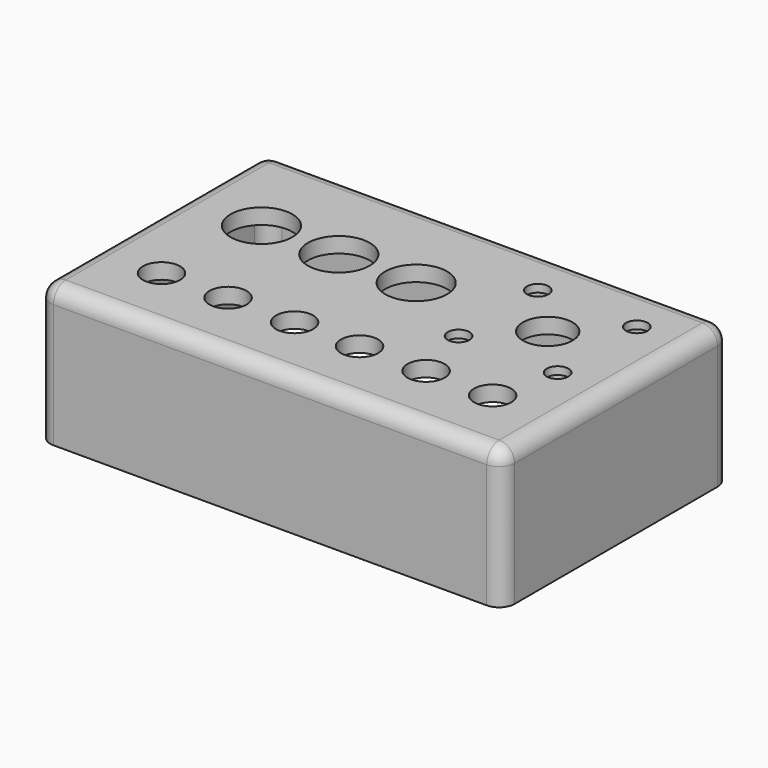
from build123d import *

# Parameters (mm, degrees)
F0_W     = 150
F0_H     = 92
F0_R     = 6
F0_R_2   = 3.5
F0_R_3   = 10
F0_R_4   = 8
F1_DEPTH = 2.5
F2_W     = 150
F2_H     = 92
F2_R     = 6
F2_R_2   = 10
F2_R_3   = 8
F3_DEPTH = 2.5
F4_W     = 150
F4_H     = 92
F5_DEPTH = 40
F6_R     = 5


with BuildPart() as f1:
    # F0 (on Top) → F1 (new body)
    with BuildSketch(Plane.XY):
        with Locations((75, 46)):
            Rectangle(F0_W, F0_H)
        with Locations((21.5, 23)):
            Circle(F0_R, mode=Mode.SUBTRACT)
        with Locations((43, 23)):
            Circle(F0_R, mode=Mode.SUBTRACT)
        with Locations((64.5, 23)):
            Circle(F0_R, mode=Mode.SUBTRACT)
        with Locations((85.5, 23)):
            Circle(F0_R, mode=Mode.SUBTRACT)
        with Locations((107, 23)):
            Circle(F0_R, mode=Mode.SUBTRACT)
        with Locations((101.5, 43)):
            Circle(F0_R_2, mode=Mode.SUBTRACT)
        with Locations((128.5, 23)):
            Circle(F0_R, mode=Mode.SUBTRACT)
        with Locations((133.5, 43)):
            Circle(F0_R_2, mode=Mode.SUBTRACT)
        with Locations((25, 59)):
            Circle(F0_R_3, mode=Mode.SUBTRACT)
        with Locations((50, 59)):
            Circle(F0_R_3, mode=Mode.SUBTRACT)
        with Locations((75, 59)):
            Circle(F0_R_3, mode=Mode.SUBTRACT)
        with Locations((117.5, 59)):
            Circle(F0_R_4, mode=Mode.SUBTRACT)
        with Locations((101.5, 75)):
            Circle(F0_R_2, mode=Mode.SUBTRACT)
        with Locations((133.5, 75)):
            Circle(F0_R_2, mode=Mode.SUBTRACT)
    extrude(amount=F1_DEPTH)

    # F2 (on face) → F3 (join)
    with BuildSketch(Plane.XY):
        with Locations((75, 46)):
            Rectangle(F2_W, F2_H)
        with Locations((21.5, 23)):
            Circle(F2_R, mode=Mode.SUBTRACT)
        with Locations((43, 23)):
            Circle(F2_R, mode=Mode.SUBTRACT)
        with Locations((64.5, 23)):
            Circle(F2_R, mode=Mode.SUBTRACT)
        with Locations((85.5, 23)):
            Circle(F2_R, mode=Mode.SUBTRACT)
        with Locations((107, 23)):
            Circle(F2_R, mode=Mode.SUBTRACT)
        with Locations((101.5, 43)):
            Circle(F2_R, mode=Mode.SUBTRACT)
        with Locations((128.5, 23)):
            Circle(F2_R, mode=Mode.SUBTRACT)
        with Locations((133.5, 43)):
            Circle(F2_R, mode=Mode.SUBTRACT)
        with Locations((25, 59)):
            Circle(F2_R_2, mode=Mode.SUBTRACT)
        with Locations((50, 59)):
            Circle(F2_R_2, mode=Mode.SUBTRACT)
        with Locations((75, 59)):
            Circle(F2_R_2, mode=Mode.SUBTRACT)
        with Locations((117.5, 59)):
            Circle(F2_R_3, mode=Mode.SUBTRACT)
        with Locations((101.5, 75)):
            Circle(F2_R, mode=Mode.SUBTRACT)
        with Locations((133.5, 75)):
            Circle(F2_R, mode=Mode.SUBTRACT)
    extrude(amount=-F3_DEPTH)

    # F4 (on face) → F5 (join)
    with BuildSketch(Plane(origin=(0, 0, -2.5), x_dir=(1, 0, 0), z_dir=(0, 0, -1))):
        with Locations((75, -46)):
            Rectangle(F4_W, F4_H)
        with BuildLine():
            ThreePointArc((1.5, -6.5), (2.964466, -2.964466), (6.5, -1.5))
            Line((6.5, -1.5), (143.5, -1.5))
            ThreePointArc((143.5, -1.5), (147.035534, -2.964466), (148.5, -6.5))
            Line((148.5, -6.5), (148.5, -85.5))
            ThreePointArc((148.5, -85.5), (147.035534, -89.035534), (143.5, -90.5))
            Line((143.5, -90.5), (6.5, -90.5))
            ThreePointArc((6.5, -90.5), (2.964466, -89.035534), (1.5, -85.5))
            Line((1.5, -85.5), (1.5, -6.5))
        make_face(mode=Mode.SUBTRACT)
    extrude(amount=F5_DEPTH)

    # F6
    f6_edges = [f1.edges().sort_by_distance(p)[0] for p in [
        (75, 0, 2.5),
        (150, 0, -20),
        (150, 46, 2.5),
        (150, 92, -20),
        (75, 92, 2.5),
        (0, 46, 2.5),
        (0, 92, -20),
        (0, 0, -20),
    ]]
    fillet(f6_edges, radius=F6_R)


solid = f1.part
